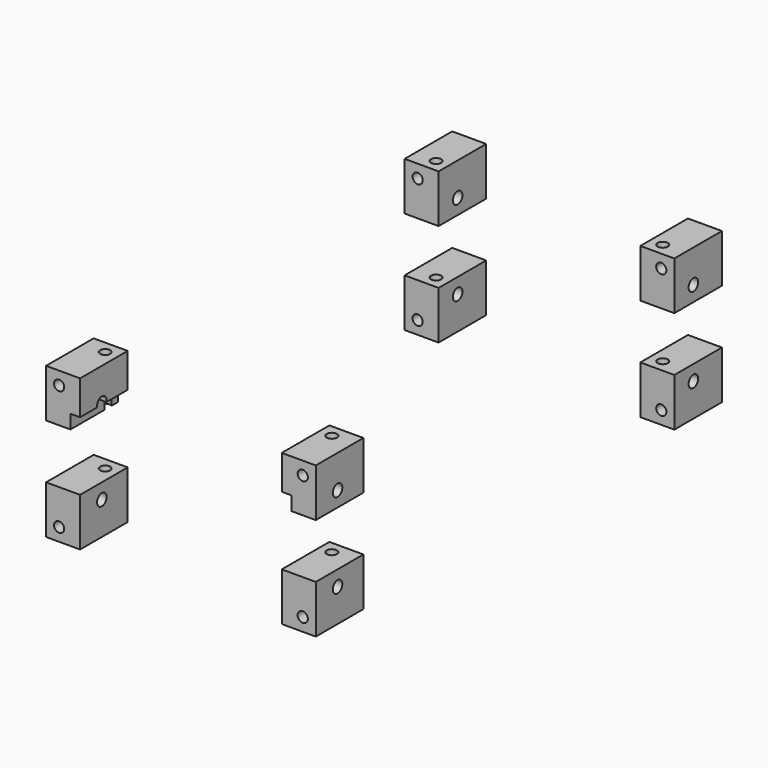
from build123d import *

# Parameters (mm, degrees)
BOX010_W          = 78
BOX010_H          = 30
BOX010_DEPTH      = 13
CYLINDER003_R     = 2.1
CYLINDER003_DEPTH = 102
ARRAY001_Y_COUNT  = 2
ARRAY001_Y_PITCH  = 157
ARRAY001_Z_COUNT  = 2
ARRAY001_Z_PITCH  = 30
CYLINDER004_R     = 1.8
CYLINDER004_DEPTH = 200
ARRAY003_X_COUNT  = 9
ARRAY003_X_PITCH  = 10
ARRAY003_Y_COUNT  = 2
ARRAY003_Y_PITCH  = 146
CYLINDER006_R     = 1.8
CYLINDER006_DEPTH = 200
ARRAY005_X_COUNT  = 2
ARRAY005_X_PITCH  = 80
ARRAY005_Y_COUNT  = 10
ARRAY005_Y_PITCH  = 10
CYLINDER002_R     = 1.8
CYLINDER002_DEPTH = 200
ARRAY_X_COUNT     = 2
ARRAY_X_PITCH     = 86
ARRAY_Z_COUNT     = 2
ARRAY_Z_PITCH     = 44
BOX007_W          = 12
BOX007_H          = 21
BOX007_DEPTH      = 17
BOX006_W          = 12
BOX006_H          = 21
BOX006_DEPTH      = 17


with BuildPart() as display_max_hole_size_cube:
    # Box010 → Box010 (new body)
    with BuildSketch(Plane(origin=(-39, 0, 31.5), x_dir=(1, 0, 0), z_dir=(0, 0, 1))):
        with Locations((39, 15)):
            Rectangle(BOX010_W, BOX010_H)
    extrude(amount=BOX010_DEPTH)


with BuildPart() as bolt_side_hole_array:
    # Cylinder003 → Cylinder003 (new body)
    with BuildSketch(Plane(origin=(-51, 13, 15), x_dir=(0, 0, -1), z_dir=(1, 0, 0))):
        Circle(CYLINDER003_R)
    extrude(amount=CYLINDER003_DEPTH)

    # Array001 Y: bolt side hole array ×2


with BuildPart() as bolt_side_hole_array_1:
    add(bolt_side_hole_array.part)
    with Locations(*[(0, i * ARRAY001_Y_PITCH, 0) for i in range(1, ARRAY001_Y_COUNT)]):
        add(bolt_side_hole_array.part)

    # Array001 Z: bolt side hole array ×2


with BuildPart() as bolt_side_hole_array_2:
    add(bolt_side_hole_array_1.part)
    with Locations(*[(0, 0, i * ARRAY001_Z_PITCH) for i in range(1, ARRAY001_Z_COUNT)]):
        add(bolt_side_hole_array_1.part)


with BuildPart() as psu_bottom_bolt_hole_array:
    # Cylinder004 → Cylinder004 (new body)
    with BuildSketch(Plane(origin=(-40, 20, 0), x_dir=(1, 0, 0), z_dir=(0, 0, 1))):
        Circle(CYLINDER004_R)
    extrude(amount=CYLINDER004_DEPTH)

    # Array003 X: psu bottom bolt hole array ×9


with BuildPart() as psu_bottom_bolt_hole_array_1:
    add(psu_bottom_bolt_hole_array.part)
    with Locations(*[(i * ARRAY003_X_PITCH, 0, 0) for i in range(1, ARRAY003_X_COUNT)]):
        add(psu_bottom_bolt_hole_array.part)

    # Array003 Y: psu bottom bolt hole array ×2


with BuildPart() as psu_bottom_bolt_hole_array_2:
    add(psu_bottom_bolt_hole_array_1.part)
    with Locations(*[(0, i * ARRAY003_Y_PITCH, 0) for i in range(1, ARRAY003_Y_COUNT)]):
        add(psu_bottom_bolt_hole_array_1.part)


with BuildPart() as bottom_hole_fusion:
    # Cylinder006 → Cylinder006 (new body)
    with BuildSketch(Plane(origin=(-40, 9, 0), x_dir=(1, 0, 0), z_dir=(0, 0, 1))):
        Circle(CYLINDER006_R)
    extrude(amount=CYLINDER006_DEPTH)

    # Array005 X: bottom hole fusion ×2


with BuildPart() as bottom_hole_fusion_1:
    add(bottom_hole_fusion.part)
    with Locations(*[(i * ARRAY005_X_PITCH, 0, 0) for i in range(1, ARRAY005_X_COUNT)]):
        add(bottom_hole_fusion.part)

    # Array005 Y: bottom hole fusion ×10


with BuildPart() as bottom_hole_fusion_2:
    add(bottom_hole_fusion_1.part)
    with Locations(*[(0, i * ARRAY005_Y_PITCH, 0) for i in range(1, ARRAY005_Y_COUNT)]):
        add(bottom_hole_fusion_1.part)


with BuildPart() as bottom_hole_fusion_3:
    # Array005 placement: moved
    add(bottom_hole_fusion_2.part.moved(Location((0, 40, 0))))

    # Fusion002: union psu bottom bolt hole array
    add(psu_bottom_bolt_hole_array_2.part)


with BuildPart() as all_hole_fusion:
    # Cylinder002 → Cylinder002 (new body)
    with BuildSketch(Plane(origin=(-43, 200, 8), x_dir=(1, 0, 0), z_dir=(0, -1, 0))):
        Circle(CYLINDER002_R)
    extrude(amount=CYLINDER002_DEPTH)

    # Array X: all hole fusion ×2


with BuildPart() as all_hole_fusion_1:
    add(all_hole_fusion.part)
    with Locations(*[(i * ARRAY_X_PITCH, 0, 0) for i in range(1, ARRAY_X_COUNT)]):
        add(all_hole_fusion.part)

    # Array Z: all hole fusion ×2


with BuildPart() as all_hole_fusion_2:
    add(all_hole_fusion_1.part)
    with Locations(*[(0, 0, i * ARRAY_Z_PITCH) for i in range(1, ARRAY_Z_COUNT)]):
        add(all_hole_fusion_1.part)

    # Fusion003: union bolt side hole array, bottom hole fusion
    add(bolt_side_hole_array_2.part)
    add(bottom_hole_fusion_3.part)

    # Fusion007: union display max hole size cube
    add(display_max_hole_size_cube.part)


with BuildPart() as bolt_cube001:
    # Box007 → Box007 (new body)
    with BuildSketch(Plane(origin=(35.6, 161.6, 3.4), x_dir=(1, 0, 0), z_dir=(0, 0, 1))):
        with Locations((6, 10.5)):
            Rectangle(BOX007_W, BOX007_H)
    extrude(amount=BOX007_DEPTH)


with BuildPart() as bolt_cube_compound:
    # Box006 → Box006 (new body)
    with BuildSketch(Plane(origin=(35.6, 3.4, 3.4), x_dir=(1, 0, 0), z_dir=(0, 0, 1))):
        with Locations((6, 10.5)):
            Rectangle(BOX006_W, BOX006_H)
    extrude(amount=BOX006_DEPTH)

    # Compound: union bolt cube001
    add(bolt_cube001.part)


with BuildPart() as bolt_cube_fusion:
    # Part__Mirroring002: instance of bolt cube compound
    add(bolt_cube_compound.part.mirror(Plane(origin=(0, 0, 0), x_dir=(0, -1, 0), z_dir=(1, 0, 0))))

    # Fusion004: union bolt cube compound
    add(bolt_cube_compound.part)


with BuildPart() as bolt_cube_full_cut:
    # Part__Mirroring003: instance of bolt cube fusion
    add(bolt_cube_fusion.part.mirror(Plane(origin=(0, 0, 30), x_dir=(0, 1, 0), z_dir=(0, 0, 1))))

    # Fusion005: union bolt cube fusion
    add(bolt_cube_fusion.part)

    # Cut008: cut all hole fusion
    add(all_hole_fusion_2.part, mode=Mode.SUBTRACT)


solid = bolt_cube_full_cut.part
